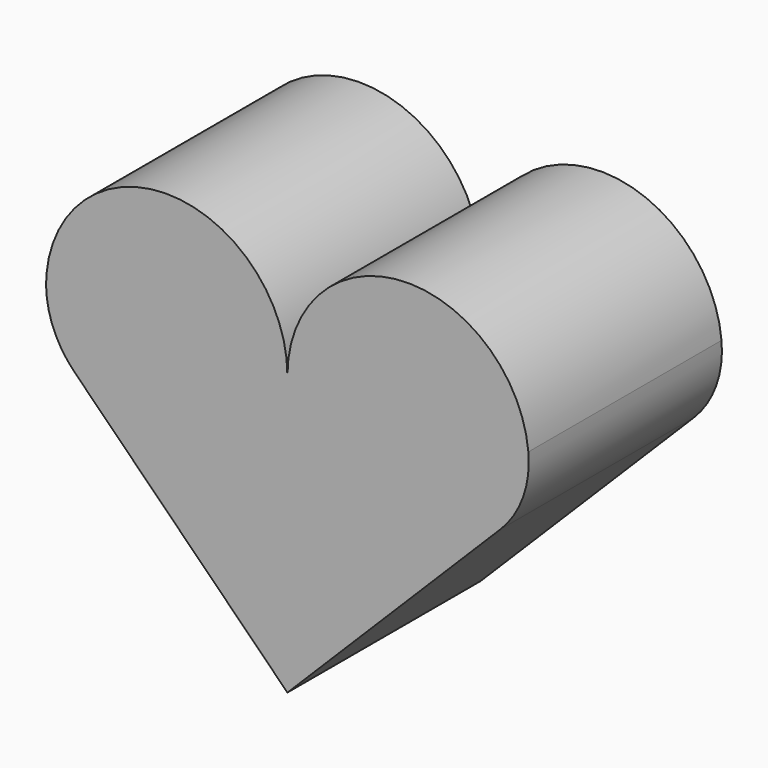
from build123d import *

# Parameters (mm, degrees)
F1_DEPTH = 25.4


with BuildPart() as f1:
    # F0 (on Front) → F1 (new body)
    with BuildSketch(Plane.XZ):
        with BuildLine():
            Line((-22.413391, -1.969051), (0, -24.382442))
            Line((0, -24.382442), (22.413391, -1.969051))
            ThreePointArc((22.413391, -1.969051), (24.785195, 1.764316), (25.345929, 6.151691))
            ThreePointArc((25.345929, 6.151691), (12.11404, 17.667495), (0, 4.98102))
            ThreePointArc((0, 4.98102), (-12.11404, 17.667495), (-25.345929, 6.151691))
            ThreePointArc((-25.345929, 6.151691), (-24.785195, 1.764316), (-22.413391, -1.969051))
        make_face()
    extrude(amount=F1_DEPTH)


solid = f1.part
